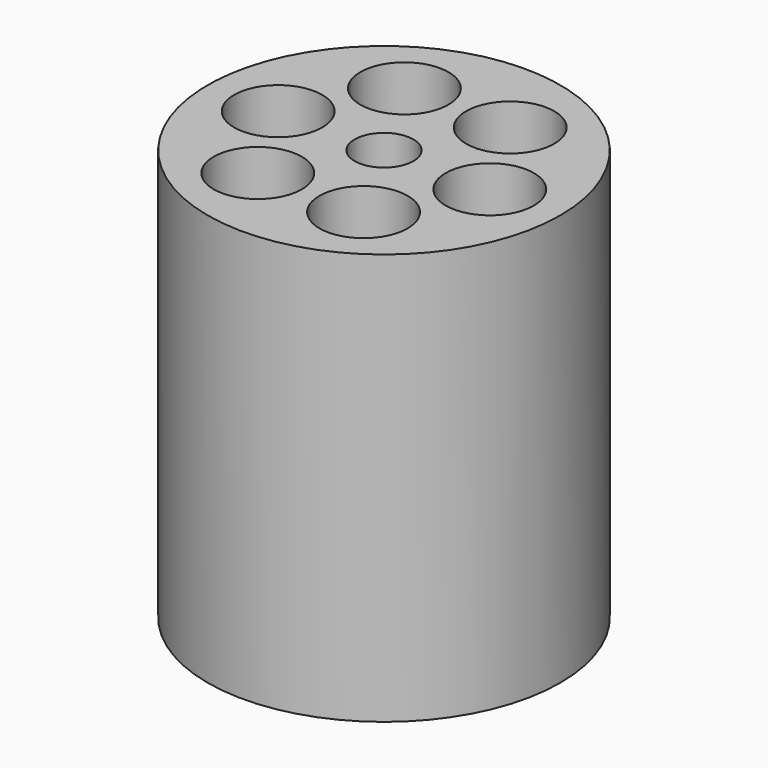
from build123d import *

# Parameters (mm, degrees)
F0_R     = 38.1
F1_DEPTH = 88.9
F3_D     = 12.7
F5_D     = 19.05


with BuildPart() as f1:
    # F0 (on Top) → F1 (new body)
    with BuildSketch(Plane.XY):
        Circle(F0_R)
    extrude(amount=F1_DEPTH)

    # F3 (through all)
    with Locations(Plane(origin=(0, 0, 0), x_dir=(1, 0, 0), z_dir=(0, 0, -1))):
        with Locations((0, 0)):
            Hole(F3_D / 2)

    # F5 (through all)
    with Locations(Plane(origin=(0, 0, 0), x_dir=(1, 0, 0), z_dir=(0, 0, -1))):
        with Locations((-22.86, 0), (-11.43, -19.797341), (11.43, -19.797341), (22.86, 0), (11.43, 19.797341), (-11.43, 19.797341)):
            Hole(F5_D / 2)


solid = f1.part
